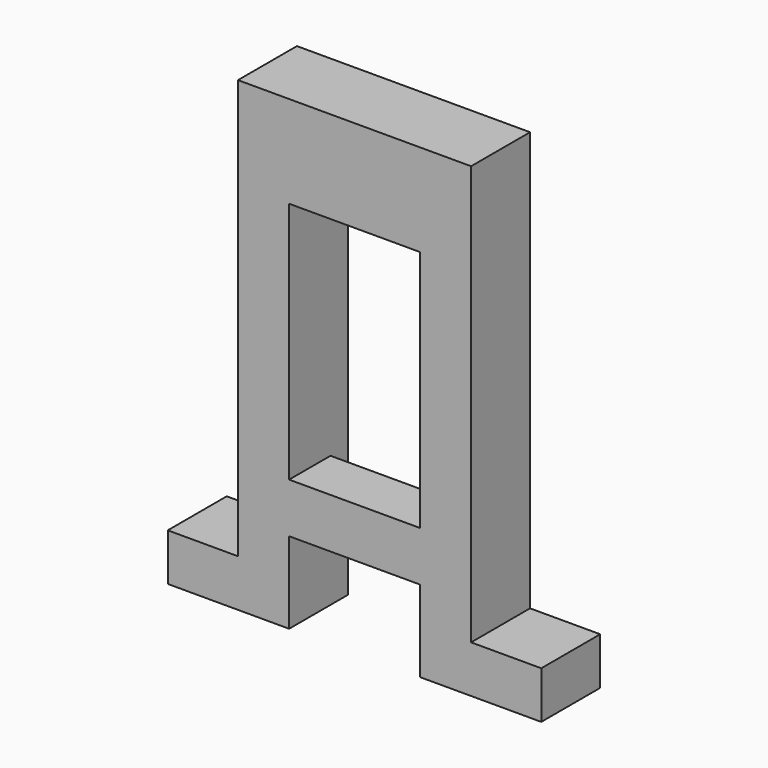
from build123d import *

# Parameters (mm, degrees)
F0_W     = 12.6
F0_H     = 23.4
F1_DEPTH = 7.1
F2_W     = 12.6
F2_H     = 4.8
F2_H_2   = 4.88
F3_DEPTH = 2.12


with BuildPart() as f1:
    # F0 (on Front) → F1 (new body)
    with BuildSketch(Plane.XZ):
        Polygon((11.23, 22.465), (-11.23, 22.465), (-11.23, -17.915), (-17.99, -17.915), (-17.99, -22.465), (-6.3, -22.465), (-6.3, -14.615), (6.3, -14.615), (6.3, -22.465), (17.99, -22.465), (17.99, -17.915), (11.23, -17.915), align=None)
        with Locations((0, 1.885)):
            Rectangle(F0_W, F0_H, mode=Mode.SUBTRACT)
    extrude(amount=F1_DEPTH)

    # F2 (on face) → F3 (cut)
    with BuildSketch(Plane(origin=(0, 0, 0), x_dir=(-1, 0, 0), z_dir=(0, 1, 0))):
        with Locations((0, -12.215)):
            Rectangle(F2_W, F2_H)
        with Locations((0, 16.025)):
            Rectangle(F2_W, F2_H_2)
    extrude(amount=-F3_DEPTH, mode=Mode.SUBTRACT)


solid = f1.part
